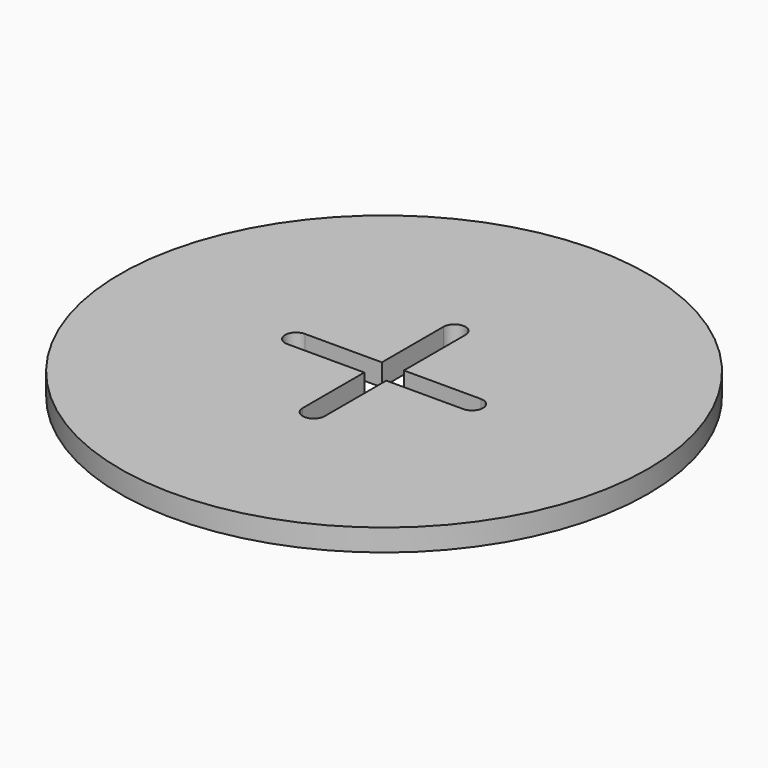
from build123d import *

# Parameters (mm, degrees)
F0_R     = 76.2
F1_DEPTH = 6.35


with BuildPart() as f1:
    # F0 (on Top) → F1 (new body)
    with BuildSketch(Plane.XY):
        Circle(F0_R)
        with BuildLine():
            Line((-3.175, -25.4), (-3.175, -3.175))
            Line((-3.175, -3.175), (-25.4, -3.175))
            ThreePointArc((-25.4, -3.175), (-28.575, 0), (-25.4, 3.175))
            Line((-25.4, 3.175), (-3.175, 3.175))
            Line((-3.175, 3.175), (-3.175, 25.4))
            ThreePointArc((-3.175, 25.4), (0, 28.575), (3.175, 25.4))
            Line((3.175, 25.4), (3.175, 3.175))
            Line((3.175, 3.175), (25.4, 3.175))
            ThreePointArc((25.4, 3.175), (28.575, 0), (25.4, -3.175))
            Line((25.4, -3.175), (3.175, -3.175))
            Line((3.175, -3.175), (3.175, -25.4))
            ThreePointArc((3.175, -25.4), (0, -28.575), (-3.175, -25.4))
        make_face(mode=Mode.SUBTRACT)
    extrude(amount=F1_DEPTH)


solid = f1.part
